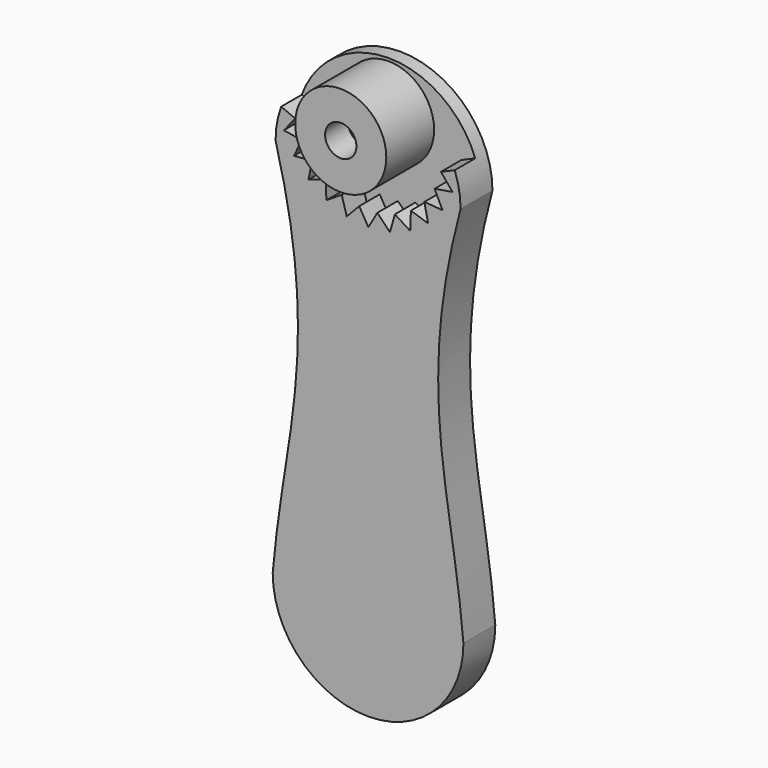
from build123d import *

# Parameters (mm, degrees)
F1_DEPTH = 7.112
F2_R     = 8.128
F2_R_2   = 2.794
F3_DEPTH = 6.096
F4_DEPTH = 50.8
F5_R     = 8.128
F6_DEPTH = 4.572
F7_R     = 5.08
F7_R_2   = 2.794
F8_DEPTH = 8.128


with BuildPart() as f1:
    # F0 (on Front) → F1 (new body)
    with BuildSketch(Plane.XZ):
        with BuildLine():
            add(Edge.make_bspline(
                [(16.51, 16.2022389048), (8.1950903917, -14.7107664531), (15.1309384414, -29.2677398155), (17.018, -51.8697610952)],
                knots=[0, 0, 0, 0, 68.073895496, 68.073895496, 68.073895496, 68.073895496], degree=3))
            ThreePointArc((16.51, 16.2022389048), (0, 32.7122389048), (-16.51, 16.2022389048))
            add(Edge.make_bspline(
                [(-16.51, 16.2022389048), (-8.1950903917, -14.7107664531), (-15.1309384414, -29.2677398155), (-17.018, -51.8697610952)],
                knots=[0, 0, 0, 0, 68.073895496, 68.073895496, 68.073895496, 68.073895496], degree=3))
            ThreePointArc((-17.018, -51.8697610952), (0, -68.8877610952), (17.018, -51.8697610952))
        make_face()
    extrude(amount=F1_DEPTH)

    # F2 (on face) → F3 (join)
    with BuildSketch(Plane.XZ.offset(7.112)):
        with Locations((0, 24.0762389048)):
            Circle(F2_R)
        with Locations((0, 24.0762389048)):
            Circle(F2_R_2, mode=Mode.SUBTRACT)
    extrude(amount=F3_DEPTH)

    # F4 (cut, symmetric): a face of the model
    f4_faces = [f1.faces().sort_by_distance(p)[0] for p in [
        (0, -7.112, 24.0762389048),
    ]]
    extrude(f4_faces, amount=F4_DEPTH, both=True, mode=Mode.SUBTRACT)

    # F5 (on face) → F6 (cut)
    with BuildSketch(Plane.XZ.offset(7.112)):
        with BuildLine():
            ThreePointArc((15.469928865, 21.9695087018), (-0.0442530739, 32.7121795972), (-15.5006234178, 21.8864955545))
            Line((-15.5006234178, 21.8864955545), (-12.9936152173, 20.8281131752))
            Line((-12.9936152173, 20.8281131752), (-15.0273981388, 18.3203464733))
            Line((-15.0273981388, 18.3203464733), (-11.8387170074, 17.8129221485))
            Line((-11.8387170074, 17.8129221485), (-13.2132540393, 14.8913104783))
            Line((-13.2132540393, 14.8913104783), (-9.995795597, 15.1617323254))
            Line((-9.995795597, 15.1617323254), (-10.6312036432, 11.9960691377))
            Line((-10.6312036432, 11.9960691377), (-7.5719548797, 13.0286212217))
            Line((-7.5719548797, 13.0286212217), (-7.4313063342, 9.8028833542))
            Line((-7.4313063342, 9.8028833542), (-4.7080596678, 11.5375575014))
            Line((-4.7080596678, 11.5375575014), (-3.7995285128, 8.4392131139))
            Line((-3.7995285128, 8.4392131139), (-1.570549141, 10.7751963679))
            Line((-1.570549141, 10.7751963679), (0.0530640951, 7.9843099742))
            Line((0.0530640951, 7.9843099742), (1.6582359931, 10.7858434794))
            Line((1.6582359931, 10.7858434794), (3.9025728106, 8.4646112522))
            Line((3.9025728106, 8.4646112522), (4.7906504787, 11.5688800644))
            Line((4.7906504787, 11.5688800644), (7.5252781797, 9.8522035834))
            Line((7.5252781797, 9.8522035834), (7.6446497718, 13.0787988828))
            Line((7.6446497718, 13.0787988828), (10.7106417342, 12.0664451452))
            Line((10.7106417342, 12.0664451452), (10.0543698074, 15.2278489412))
            Line((10.0543698074, 15.2278489412), (13.2735417227, 14.9786522665))
            Line((13.2735417227, 14.9786522665), (11.8797664159, 17.8911352617))
            Line((11.8797664159, 17.8911352617), (15.0650317137, 18.4195780548))
            Line((15.0650317137, 18.4195780548), (13.0147541814, 20.913877324))
            Line((13.0147541814, 20.913877324), (15.469928865, 21.9695087018))
        make_face()
        with BuildLine():
            Line((-11.7664292563, 17.8014187834), (-11.8387170074, 17.8129221485))
            Line((-11.8387170074, 17.8129221485), (-11.8075561021, 17.8791554056))
            ThreePointArc((-11.8075561021, 17.8791554056), (-11.7870567643, 17.84025319), (-11.7664292563, 17.8014187834))
        make_face(mode=Mode.SUBTRACT)
        with BuildLine():
            Line((-9.9228554611, 15.1678628183), (-9.995795597, 15.1617323254))
            Line((-9.995795597, 15.1617323254), (-9.9813908269, 15.2334982572))
            ThreePointArc((-9.9813908269, 15.2334982572), (-9.952177253, 15.2006322819), (-9.9228554611, 15.1678628183))
        make_face(mode=Mode.SUBTRACT)
        with BuildLine():
            Line((-12.9261809524, 20.7996444858), (-12.9936152173, 20.8281131752))
            Line((-12.9936152173, 20.8281131752), (-12.9475091354, 20.8849645215))
            ThreePointArc((-12.9475091354, 20.8849645215), (-12.9369153807, 20.842286921), (-12.9261809524, 20.7996444858))
        make_face(mode=Mode.SUBTRACT)
        with BuildLine():
            Line((-7.5026013746, 13.0520292908), (-7.5719548797, 13.0286212217))
            Line((-7.5719548797, 13.0286212217), (-7.5751433977, 13.1017490531))
            ThreePointArc((-7.5751433977, 13.1017490531), (-7.5389133745, 13.0768293692), (-7.5026013746, 13.0520292908))
        make_face(mode=Mode.SUBTRACT)
        with BuildLine():
            Line((-4.646323367, 11.5768827546), (-4.7080596678, 11.5375575014))
            Line((-4.7080596678, 11.5375575014), (-4.7286561687, 11.6077973086))
            ThreePointArc((-4.7286561687, 11.6077973086), (-4.6875152535, 11.5922721575), (-4.646323367, 11.5768827546))
        make_face(mode=Mode.SUBTRACT)
        with BuildLine():
            Line((-1.5200179341, 10.8281533646), (-1.570549141, 10.7751963679))
            Line((-1.570549141, 10.7751963679), (-1.6073566312, 10.8384660687))
            ThreePointArc((-1.6073566312, 10.8384660687), (-1.5636957843, 10.8332377157), (-1.5200179341, 10.8281533646))
        make_face(mode=Mode.SUBTRACT)
        with BuildLine():
            Line((1.6946254161, 10.8493545514), (1.6582359931, 10.7858434794))
            Line((1.6582359931, 10.7858434794), (1.6073566312, 10.8384660687))
            ThreePointArc((1.6073566312, 10.8384660687), (1.651, 10.8438383667), (1.6946254161, 10.8493545514))
        make_face(mode=Mode.SUBTRACT)
        with BuildLine():
            Line((4.8107832969, 11.639254179), (4.7906504787, 11.5688800644))
            Line((4.7906504787, 11.5688800644), (4.7286561687, 11.6077973086))
            ThreePointArc((4.7286561687, 11.6077973086), (4.7697456655, 11.6234580392), (4.8107832969, 11.639254179))
        make_face(mode=Mode.SUBTRACT)
        with BuildLine():
            Line((7.6473559389, 13.1519461522), (7.6446497718, 13.0787988828))
            Line((7.6446497718, 13.0787988828), (7.5751433977, 13.1017490531))
            ThreePointArc((7.5751433977, 13.1017490531), (7.6112910502, 13.1267880715), (7.6473559389, 13.1519461522))
        make_face(mode=Mode.SUBTRACT)
        with Locations((0, 24.0762389048)):
            Circle(F5_R, mode=Mode.SUBTRACT)
        with BuildLine():
            Line((11.8481693767, 17.9571615707), (11.8797664159, 17.8911352617))
            Line((11.8797664159, 17.8911352617), (11.8075561021, 17.8791554056))
            ThreePointArc((11.8075561021, 17.8791554056), (11.8279270467, 17.9181250071), (11.8481693767, 17.9571615707))
        make_face(mode=Mode.SUBTRACT)
        with BuildLine():
            Line((12.9682741648, 20.9704233621), (13.0147541814, 20.913877324))
            Line((13.0147541814, 20.913877324), (12.9475091354, 20.8849645215))
            ThreePointArc((12.9475091354, 20.8849645215), (12.9579621013, 20.9276768234), (12.9682741648, 20.9704233621))
        make_face(mode=Mode.SUBTRACT)
        with BuildLine():
            Line((-12.9475091354, 20.8849645215), (-12.9936152173, 20.8281131752))
            Line((-12.9936152173, 20.8281131752), (-12.9261809524, 20.7996444858))
            ThreePointArc((-12.9261809524, 20.7996444858), (-12.9369153807, 20.842286921), (-12.9475091354, 20.8849645215))
        make_face()
        with BuildLine():
            Line((-11.8075561021, 17.8791554056), (-11.8387170074, 17.8129221485))
            Line((-11.8387170074, 17.8129221485), (-11.7664292563, 17.8014187834))
            ThreePointArc((-11.7664292563, 17.8014187834), (-11.7870567643, 17.84025319), (-11.8075561021, 17.8791554056))
        make_face()
        with BuildLine():
            Line((-9.9813908269, 15.2334982572), (-9.995795597, 15.1617323254))
            Line((-9.995795597, 15.1617323254), (-9.9228554611, 15.1678628183))
            ThreePointArc((-9.9228554611, 15.1678628183), (-9.952177253, 15.2006322819), (-9.9813908269, 15.2334982572))
        make_face()
        with BuildLine():
            Line((-7.5751433977, 13.1017490531), (-7.5719548797, 13.0286212217))
            Line((-7.5719548797, 13.0286212217), (-7.5026013746, 13.0520292908))
            ThreePointArc((-7.5026013746, 13.0520292908), (-7.5389133745, 13.0768293692), (-7.5751433977, 13.1017490531))
        make_face()
        with BuildLine():
            Line((-4.7286561687, 11.6077973086), (-4.7080596678, 11.5375575014))
            Line((-4.7080596678, 11.5375575014), (-4.646323367, 11.5768827546))
            ThreePointArc((-4.646323367, 11.5768827546), (-4.6875152535, 11.5922721575), (-4.7286561687, 11.6077973086))
        make_face()
        with BuildLine():
            Line((-1.6073566312, 10.8384660687), (-1.570549141, 10.7751963679))
            Line((-1.570549141, 10.7751963679), (-1.5200179341, 10.8281533646))
            ThreePointArc((-1.5200179341, 10.8281533646), (-1.5636957843, 10.8332377157), (-1.6073566312, 10.8384660687))
        make_face()
        with BuildLine():
            Line((1.6073566312, 10.8384660687), (1.6582359931, 10.7858434794))
            Line((1.6582359931, 10.7858434794), (1.6946254161, 10.8493545514))
            ThreePointArc((1.6946254161, 10.8493545514), (1.651, 10.8438383667), (1.6073566312, 10.8384660687))
        make_face()
        with BuildLine():
            Line((4.7286561687, 11.6077973086), (4.7906504787, 11.5688800644))
            Line((4.7906504787, 11.5688800644), (4.8107832969, 11.639254179))
            ThreePointArc((4.8107832969, 11.639254179), (4.7697456655, 11.6234580392), (4.7286561687, 11.6077973086))
        make_face()
        with BuildLine():
            Line((7.5751433977, 13.1017490531), (7.6446497718, 13.0787988828))
            Line((7.6446497718, 13.0787988828), (7.6473559389, 13.1519461522))
            ThreePointArc((7.6473559389, 13.1519461522), (7.6112910502, 13.1267880715), (7.5751433977, 13.1017490531))
        make_face()
        with BuildLine():
            Line((11.8075561021, 17.8791554056), (11.8797664159, 17.8911352617))
            Line((11.8797664159, 17.8911352617), (11.8481693767, 17.9571615707))
            ThreePointArc((11.8481693767, 17.9571615707), (11.8279270467, 17.9181250071), (11.8075561021, 17.8791554056))
        make_face()
        with BuildLine():
            Line((12.9475091354, 20.8849645215), (13.0147541814, 20.913877324))
            Line((13.0147541814, 20.913877324), (12.9682741648, 20.9704233621))
            ThreePointArc((12.9682741648, 20.9704233621), (12.9579621013, 20.9276768234), (12.9475091354, 20.8849645215))
        make_face()
    extrude(amount=-F6_DEPTH, mode=Mode.SUBTRACT)

    # F7 (on face) → F8 (cut)
    with BuildSketch(Plane(origin=(0, 0, 0), x_dir=(-1, 0, 0), z_dir=(0, 1, 0))):
        with Locations((0, 24.0762389048)):
            Circle(F7_R)
        with Locations((0, 24.0762389048)):
            Circle(F7_R_2, mode=Mode.SUBTRACT)
    extrude(amount=-F8_DEPTH, mode=Mode.SUBTRACT)


solid = f1.part
